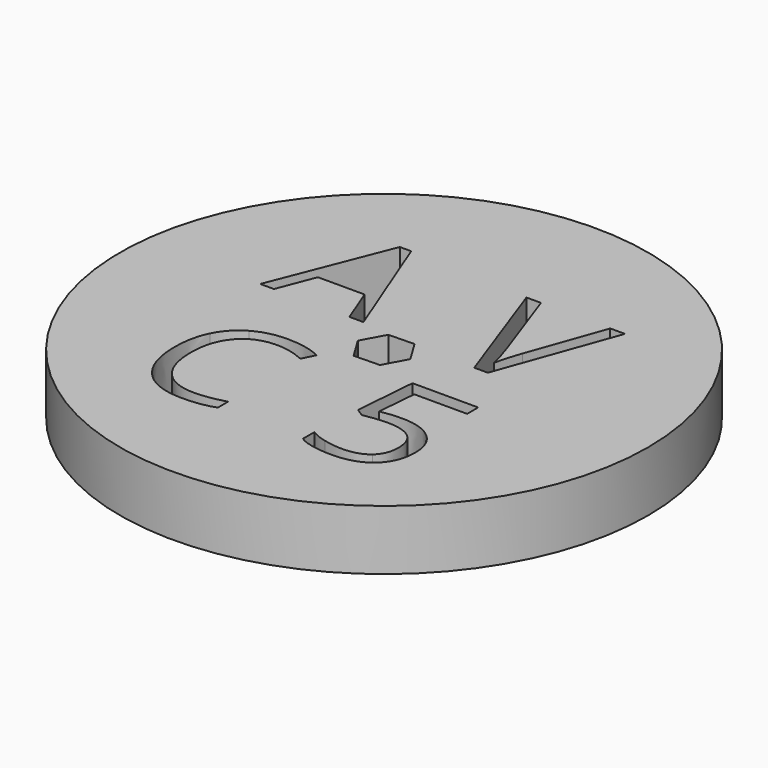
from build123d import *

# Parameters (mm, degrees)
F0_R     = 55.8806252639
F1_DEPTH = 12.7


with BuildPart() as f1:
    # F0 (on Top) → F1 (new body)
    with BuildSketch(Plane.XY):
        Circle(F0_R)
        with BuildLine():
            add(Edge.make_bspline(
                [(-8.8274130972, -11.1133217732), (-11.8591704488, -9.6938284468), (-14.8909278004, -9.6938284468)],
                knots=[0, 0, 0, 1, 1, 1], degree=2))
            add(Edge.make_bspline(
                [(-14.8909278004, -9.6938284468), (-19.2896046515, -9.6938284468), (-21.8365144883, -12.6233589127)],
                knots=[0, 0, 0, 1, 1, 1], degree=2))
            add(Edge.make_bspline(
                [(-21.8365144883, -12.6233589127), (-24.3834243251, -15.5528893786), (-24.3834243251, -20.6467090522)],
                knots=[0, 0, 0, 1, 1, 1], degree=2))
            add(Edge.make_bspline(
                [(-24.3834243251, -20.6467090522), (-24.3834243251, -25.8807255975), (-21.9270583013, -28.7401576276)],
                knots=[0, 0, 0, 1, 1, 1], degree=2))
            add(Edge.make_bspline(
                [(-21.9270583013, -28.7401576276), (-19.4706922775, -31.5995896577), (-14.9259770183, -31.5995896577)],
                knots=[0, 0, 0, 1, 1, 1], degree=2))
            add(Edge.make_bspline(
                [(-14.9259770183, -31.5995896577), (-12.133722656, -31.5995896577), (-8.55286089, -30.5948454101)],
                knots=[0, 0, 0, 1, 1, 1], degree=2))
            Line((-8.55286089, -30.5948454101), (-8.55286089, -33.3111598003))
            add(Edge.make_bspline(
                [(-8.55286089, -33.3111598003), (-11.3275906434, -34.3567948021), (-15.3991414605, -34.3567948021)],
                knots=[0, 0, 0, 1, 1, 1], degree=2))
            add(Edge.make_bspline(
                [(-15.3991414605, -34.3567948021), (-21.2932516103, -34.3567948021), (-24.4973342834, -30.7759330361)],
                knots=[0, 0, 0, 1, 1, 1], degree=2))
            add(Edge.make_bspline(
                [(-24.4973342834, -30.7759330361), (-27.7014169565, -27.1950712702), (-27.7014169565, -20.605818298)],
                knots=[0, 0, 0, 1, 1, 1], degree=2))
            add(Edge.make_bspline(
                [(-27.7014169565, -20.605818298), (-27.7014169565, -16.481693654), (-26.1592513673, -13.3798378665)],
                knots=[0, 0, 0, 1, 1, 1], degree=2))
            add(Edge.make_bspline(
                [(-26.1592513673, -13.3798378665), (-24.617085778, -10.2779820791), (-21.705079921, -8.5985403862)],
                knots=[0, 0, 0, 1, 1, 1], degree=2))
            add(Edge.make_bspline(
                [(-21.705079921, -8.5985403862), (-18.7930740641, -6.9190986934), (-14.8500370461, -6.9190986934)],
                knots=[0, 0, 0, 1, 1, 1], degree=2))
            add(Edge.make_bspline(
                [(-14.8500370461, -6.9190986934), (-10.6558139663, -6.9190986934), (-7.5130674245, -8.44958121)],
                knots=[0, 0, 0, 1, 1, 1], degree=2))
            Line((-7.5130674245, -8.44958121), (-8.8274130972, -11.1133217732))
        make_face(mode=Mode.SUBTRACT)
        Polygon((-2.8433452334, 4.6599686343), (2.6139786014, 4.792393521), (5.4573238349, 0.1324248867), (2.8433452334, -4.6599686343), (-2.6139786014, -4.792393521), (-5.4573238349, -0.1324248867), align=None, mode=Mode.SUBTRACT)
        with BuildLine():
            add(Edge.make_bspline(
                [(13.118225471, -17.7074033137), (15.3172801058, -17.2663672866), (17.5040837399, -17.2663672866)],
                knots=[0, 0, 0, 1, 1, 1], degree=2))
            add(Edge.make_bspline(
                [(17.5040837399, -17.2663672866), (21.926695011, -17.2663672866), (24.4626521665, -19.4592964211)],
                knots=[0, 0, 0, 1, 1, 1], degree=2))
            add(Edge.make_bspline(
                [(24.4626521665, -19.4592964211), (26.998609322, -21.6522255555), (26.998609322, -25.4622867892)],
                knots=[0, 0, 0, 1, 1, 1], degree=2))
            add(Edge.make_bspline(
                [(26.998609322, -25.4622867892), (26.998609322, -29.8052665554), (24.2329459024, -32.276905957)],
                knots=[0, 0, 0, 1, 1, 1], degree=2))
            add(Edge.make_bspline(
                [(24.2329459024, -32.276905957), (21.4672824829, -34.7485453585), (16.6036351847, -34.7485453585)],
                knots=[0, 0, 0, 1, 1, 1], degree=2))
            add(Edge.make_bspline(
                [(16.6036351847, -34.7485453585), (11.8747488947, -34.7485453585), (9.3877957422, -33.2355467658)],
                knots=[0, 0, 0, 1, 1, 1], degree=2))
            Line((9.3877957422, -33.2355467658), (9.3877957422, -30.172796578))
            add(Edge.make_bspline(
                [(9.3877957422, -30.172796578), (10.7231548241, -31.0303666306), (12.7139424462, -31.5204066606)],
                knots=[0, 0, 0, 1, 1, 1], degree=2))
            add(Edge.make_bspline(
                [(12.7139424462, -31.5204066606), (14.7047300682, -32.0104466906), (16.6403881869, -32.0104466906)],
                knots=[0, 0, 0, 1, 1, 1], degree=2))
            add(Edge.make_bspline(
                [(16.6403881869, -32.0104466906), (20.0094133935, -32.0104466906), (21.8746282578, -30.4208793432)],
                knots=[0, 0, 0, 1, 1, 1], degree=2))
            add(Edge.make_bspline(
                [(21.8746282578, -30.4208793432), (23.7398431222, -28.8313119957), (23.7398431222, -25.8236913113)],
                knots=[0, 0, 0, 1, 1, 1], degree=2))
            add(Edge.make_bspline(
                [(23.7398431222, -25.8236913113), (23.7398431222, -19.9677129523), (16.5668821824, -19.9677129523)],
                knots=[0, 0, 0, 1, 1, 1], degree=2))
            add(Edge.make_bspline(
                [(16.5668821824, -19.9677129523), (14.7476085709, -19.9677129523), (11.7032348842, -20.5251334864)],
                knots=[0, 0, 0, 1, 1, 1], degree=2))
            Line((11.7032348842, -20.5251334864), (10.0554752832, -19.4715474218))
            Line((10.0554752832, -19.4715474218), (11.1090613478, -6.3752276189))
            Line((11.1090613478, -6.3752276189), (25.0261982011, -6.3752276189))
            Line((25.0261982011, -6.3752276189), (25.0261982011, -9.3032167984))
            Line((25.0261982011, -9.3032167984), (13.8287835145, -9.3032167984))
            Line((13.8287835145, -9.3032167984), (13.118225471, -17.7074033137))
        make_face(mode=Mode.SUBTRACT)
        Polygon((-8.8821777954, 5.6402049959), (-11.8495973103, 5.6402049959), (-14.9195276811, 13.4795878234), (-24.7983370116, 13.4795878234), (-27.830500225, 5.6402049959), (-30.7331760414, 5.6402049959), (-20.9892494161, 30.3938790583), (-18.5775466468, 30.3938790583), align=None, mode=Mode.SUBTRACT)
        with BuildLine():
            Line((18.6679722386, 13.2637759067), (24.385376429, 29.3535589635))
            Line((24.385376429, 29.3535589635), (27.5124241231, 29.3535589635))
            Line((27.5124241231, 29.3535589635), (18.4982025739, 4.3317009695))
            Line((18.4982025739, 4.3317009695), (15.6230711564, 4.3317009695))
            Line((15.6230711564, 4.3317009695), (6.6526611336, 29.3535589635))
            Line((6.6526611336, 29.3535589635), (9.7358973013, 29.3535589635))
            Line((9.7358973013, 29.3535589635), (15.4861601365, 13.1651999724))
            add(Edge.make_bspline(
                [(15.4861601365, 13.1651999724), (16.4773959204, 10.3722151668), (17.0578986448, 7.7380471442)],
                knots=[0, 0, 0, 1, 1, 1], degree=2))
            add(Edge.make_bspline(
                [(17.0578986448, 7.7380471442), (17.6767364546, 10.5091261867), (18.6679722386, 13.2637759067)],
                knots=[0, 0, 0, 1, 1, 1], degree=2))
        make_face(mode=Mode.SUBTRACT)
    extrude(amount=F1_DEPTH)


solid = f1.part
